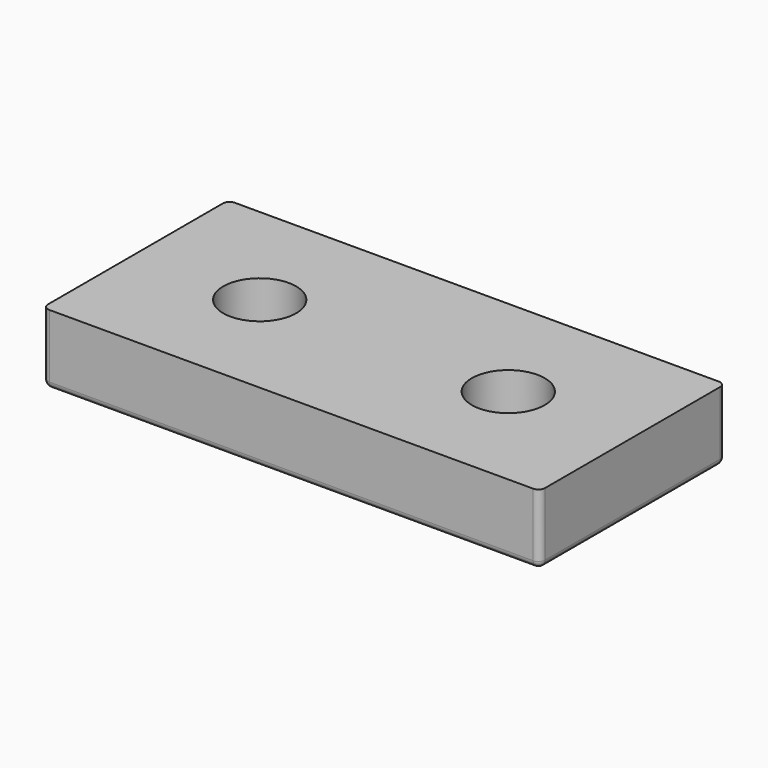
from build123d import *

# Parameters (mm, degrees)
F0_W     = 75
F0_H     = 35
F1_DEPTH = 10.57
F2_D     = 11
F3_R     = 1


with BuildPart() as f1:
    # F0 (on Top) → F1 (new body)
    with BuildSketch(Plane.XY):
        Rectangle(F0_W, F0_H)
    extrude(amount=F1_DEPTH)

    # F2 (through all)
    with Locations(Plane(origin=(0, 0, 0), x_dir=(1, 0, 0), z_dir=(0, 0, -1))):
        with Locations((-18.75, 0), (18.75, 0)):
            Hole(F2_D / 2)

    # F3
    f3_edges = [f1.edges().sort_by_distance(p)[0] for p in [
        (0, -17.5, 0),
        (-37.5, -17.5, 5.285),
        (37.5, -17.5, 5.285),
        (37.5, 0, 0),
        (-37.5, 0, 0),
        (0, 17.5, 0),
        (-37.5, 17.5, 5.285),
        (37.5, 17.5, 5.285),
    ]]
    fillet(f3_edges, radius=F3_R)


solid = f1.part
